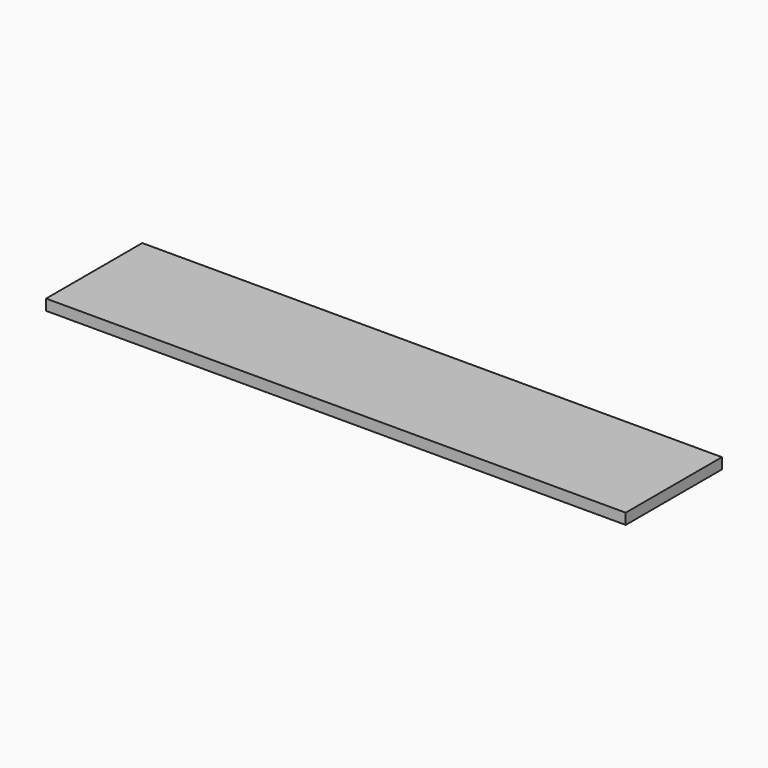
from build123d import *

# Parameters (mm, degrees)
F0_W     = 964
F0_H     = 200
F1_DEPTH = 18
F2_R     = 3
F3_DEPTH = 5


with BuildPart() as f1:
    # F0 (on Top) → F1 (new body)
    with BuildSketch(Plane.XY):
        Rectangle(F0_W, F0_H)
    extrude(amount=F1_DEPTH)

    # F2 (on face) → F3 (cut)
    with BuildSketch(Plane(origin=(0, 0, 0), x_dir=(1, 0, 0), z_dir=(0, 0, -1))):
        with Locations((-350, 0)):
            Circle(F2_R)
        with Locations((350, 0)):
            Circle(F2_R)
    extrude(amount=-F3_DEPTH, mode=Mode.SUBTRACT)


solid = f1.part
